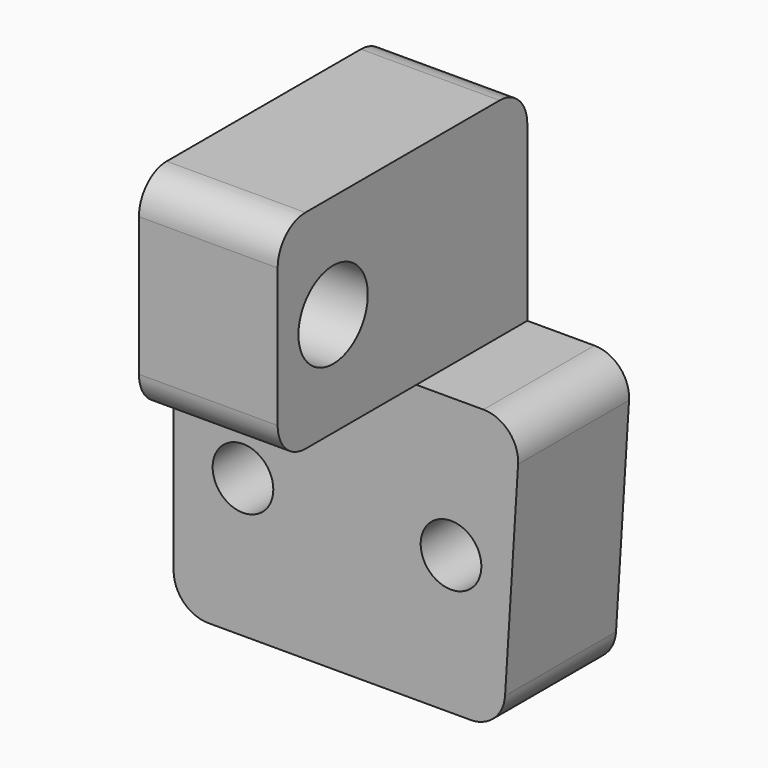
from build123d import *

# Parameters (mm, degrees)
F0_R     = 5.55625
F1_DEPTH = 25.4
F2_W     = 25.4
F2_H     = 57.15
F3_DEPTH = 38.1
F4_R     = 6.35
F5_R     = 7.9375
F6_DEPTH = 25.4


with BuildPart() as f1:
    # F0 (on Front) → F1 (new body)
    with BuildSketch(Plane.XZ):
        with BuildLine():
            ThreePointArc((0, 6.35), (1.859872, 1.859872), (6.35, 0))
            Line((6.35, 0), (54.359485, 0))
            ThreePointArc((54.359485, 0), (58.707315, 1.721947), (60.697119, 5.953898))
            Line((60.697119, 5.953898), (63.078369, 44.053898))
            ThreePointArc((63.078369, 44.053898), (61.368788, 48.79783), (56.740735, 50.8))
            Line((56.740735, 50.8), (6.35, 50.8))
            ThreePointArc((6.35, 50.8), (1.859872, 48.940128), (0, 44.45))
            Line((0, 44.45), (0, 6.35))
        make_face()
        with Locations((12.7, 25.4)):
            Circle(F0_R, mode=Mode.SUBTRACT)
        with Locations((50.8, 25.4)):
            Circle(F0_R, mode=Mode.SUBTRACT)
    extrude(amount=F1_DEPTH)

    # F2 (on face) → F3 (join)
    with BuildSketch(Plane.XY.offset(50.8)):
        with Locations((31.75, -28.575)):
            Rectangle(F2_W, F2_H)
    extrude(amount=F3_DEPTH)

    # F4
    f4_edges = [f1.edges().sort_by_distance(p)[0] for p in [
        (31.75, -57.15, 88.9),
        (31.75, -57.15, 50.8),
        (31.75, 0, 88.9),
    ]]
    fillet(f4_edges, radius=F4_R)

    # F5 (on face) → F6 (cut)
    with BuildSketch(Plane(origin=(19.05, 0, 0), x_dir=(0, -1, 0), z_dir=(-1, 0, 0))):
        with Locations((44.45, 69.85)):
            Circle(F5_R)
    extrude(amount=-F6_DEPTH, mode=Mode.SUBTRACT)


solid = f1.part
